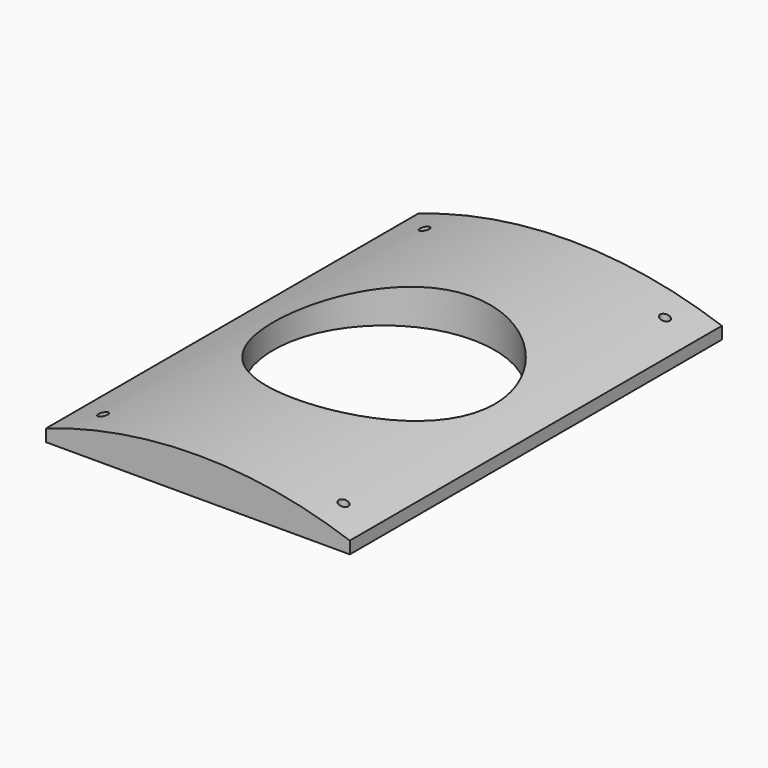
from build123d import *

# Parameters (mm, degrees)
PAD008_DEPTH    = 147
SKETCH029_R     = 35
POCKET004_DEPTH = 12.001
SKETCH049_R     = 1.5
POCKET013_DEPTH = 12.001


with BuildPart() as part:
    # Sketch028 → Pad008 (new body)
    with BuildSketch(Plane.XZ):
        with BuildLine():
            Line((-327.151421, 0), (-231.151421, 0))
            Line((-231.151421, 0), (-231.151421, 3.854468))
            ThreePointArc((-231.151421, 3.854468), (-279.151421, 12), (-327.151421, 3.854468))
            Line((-327.151421, 0), (-327.151421, 3.854468))
        make_face()
    extrude(amount=PAD008_DEPTH)

    # Sketch029 (on DatumPlane) → Pocket004 (cut, through all)
    with BuildSketch(Plane(origin=(0, 0, 0), x_dir=(1, 0, 0), z_dir=(0, 0, -1))):
        with Locations((-279.151421, 73.5)):
            Circle(SKETCH029_R)
    extrude(amount=-POCKET004_DEPTH, mode=Mode.SUBTRACT)

    # Sketch049 (on Face1 of Pocket004) → Pocket013 (cut, through all)
    with BuildSketch(Plane(origin=(0, 0, 0), x_dir=(1, 0, 0), z_dir=(0, 0, -1))):
        with Locations((-317.151421, 137)):
            Circle(SKETCH049_R)
        with Locations((-241.151421, 137)):
            Circle(SKETCH049_R)
        with Locations((-317.151421, 10)):
            Circle(SKETCH049_R)
        with Locations((-241.151421, 10)):
            Circle(SKETCH049_R)
    extrude(amount=-POCKET013_DEPTH, mode=Mode.SUBTRACT)


with BuildPart() as part_1:
    # Body006 placement: moved
    add(part.part.moved(Location((436.71651, -6.430456, -3.949142))))


solid = part_1.part
